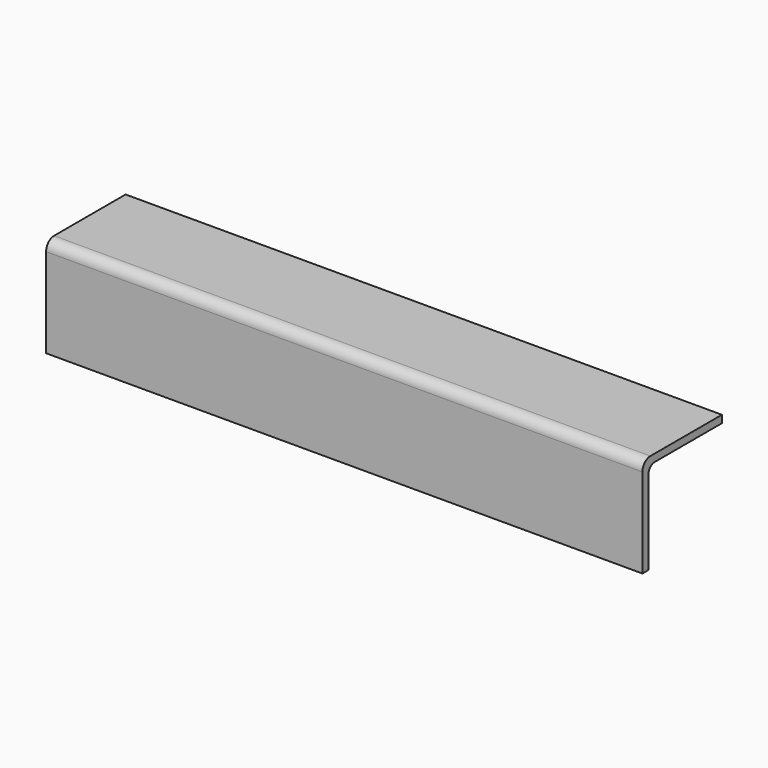
from build123d import *

# Parameters (mm, degrees)
F1_DEPTH = 381


with BuildPart() as f1:
    # F0 (on Right) → F1 (new body)
    with BuildSketch(Plane.YZ):
        with BuildLine():
            Line((-28.115756, 44.895094), (-28.115756, -12.254906))
            Line((-28.115756, -12.254906), (-23.353256, -12.254906))
            Line((-23.353256, -12.254906), (-23.353256, 41.402594))
            ThreePointArc((-23.353256, 41.402594), (-21.865359, 44.994697), (-18.273256, 46.482594))
            Line((-18.273256, 46.482594), (35.384244, 46.482594))
            Line((35.384244, 46.482594), (35.384244, 51.245094))
            Line((35.384244, 51.245094), (-21.765756, 51.245094))
            ThreePointArc((-21.765756, 51.245094), (-26.255884, 49.385222), (-28.115756, 44.895094))
        make_face()
    extrude(amount=F1_DEPTH)


solid = f1.part
